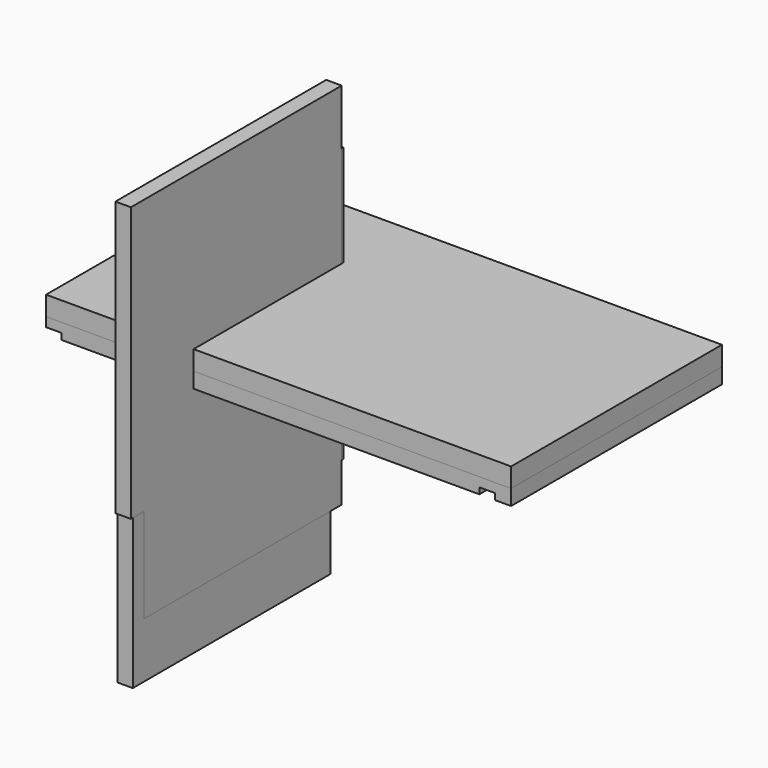
from build123d import *

# Parameters (mm, degrees)
F2_W     = 20
F2_H     = 340
F2_W_2   = 539
F2_W_3   = 21
F3_DEPTH = 20
F4_START = -12
F4_DEPTH = 8
F6_DEPTH = 20
F8_DEPTH = 20
F9_DEPTH = 25


with BuildPart() as f3:
    # F2 (on Top) → F3 (new body)
    with BuildSketch(Plane.XY):
        with Locations((-160.284396112, 100.4845837683)):
            Rectangle(F2_W, F2_H)
        with Locations((119.215603888, 100.4845837683)):
            Rectangle(F2_W_2, F2_H)
        with Locations((398.715603888, 100.4845837683)):
            Rectangle(F2_W, F2_H)
        with Locations((419.215603888, 100.4845837683)):
            Rectangle(F2_W_3, F2_H)
    extrude(amount=-F3_DEPTH)

    # F2 (on Top) → F4 (cut)
    with BuildSketch(Plane.XY.offset(F4_START)):
        with Locations((-160.284396112, 100.4845837683)):
            Rectangle(F2_W, F2_H)
        with Locations((398.715603888, 100.4845837683)):
            Rectangle(F2_W, F2_H)
    extrude(amount=-F4_DEPTH, mode=Mode.SUBTRACT)


with BuildPart() as f6:
    # F5 (on Right) → F6 (new body)
    with BuildSketch(Plane.YZ):
        Polygon((172.4259472266, -198.1971520801), (172.4259472266, 155.8028479199), (-167.5740527734, 155.8028479199), (-167.5740527734, -198.1971520801), (-167.5740527734, -320.1971520801), (-146.5740527734, -320.1971520801), (151.4259472266, -320.1971520801), (151.4259472266, -198.1971520801), align=None)
    extrude(amount=F6_DEPTH)


with BuildPart() as f8:
    # F7 (on Right) → F8 (new body)
    with BuildSketch(Plane.YZ):
        Polygon((169.4401661679, 227.2081043864), (-170.5598338321, 227.2081043864), (-170.5598338321, -126.7918956136), (-149.5598338321, -126.7918956136), (-149.5598338321, -248.7918956136), (169.4401661679, -248.7918956136), align=None)
    extrude(amount=F8_DEPTH)


with BuildPart() as f9:
    # F2 (on Top) → F9 (new body)
    with BuildSketch(Plane.XY):
        with Locations((-160.284396112, 100.4845837683)):
            Rectangle(F2_W, F2_H)
        with Locations((119.215603888, 100.4845837683)):
            Rectangle(F2_W_2, F2_H)
        with Locations((398.715603888, 100.4845837683)):
            Rectangle(F2_W, F2_H)
        with Locations((419.215603888, 100.4845837683)):
            Rectangle(F2_W_3, F2_H)
    extrude(amount=F9_DEPTH)


solid = Compound([f3.part, f6.part, f8.part, f9.part])
